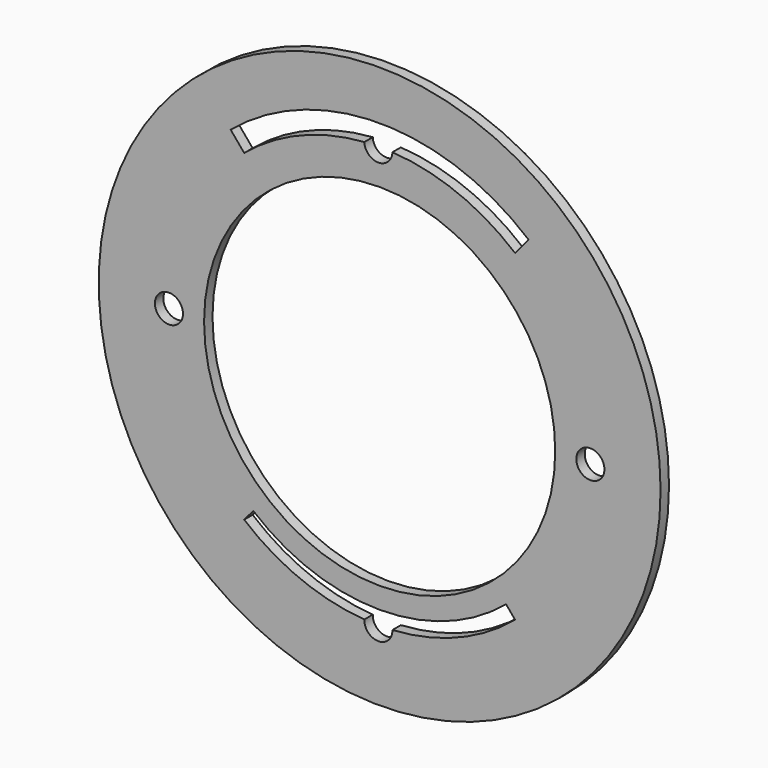
from build123d import *

# Parameters (mm, degrees)
F0_R     = 40
F0_R_2   = 2
F0_R_3   = 25
F1_DEPTH = 1.5


with BuildPart() as f1:
    # F0 (on Front) → F1 (new body)
    with BuildSketch(Plane.XZ):
        Circle(F0_R)
        with BuildLine():
            ThreePointArc((1.817168, -29.944914), (-0.194228, -31.999411), (-2.180536, -29.920649))
            ThreePointArc((-2.180536, -29.920649), (-11.279012, -27.798991), (-19.283628, -22.981333))
            Line((-19.283628, -22.981333), (-17.998053, -21.449244))
            ThreePointArc((-17.998053, -21.449244), (0, -28), (17.998053, -21.449244))
            Line((17.998053, -21.449244), (19.283628, -22.981333))
            ThreePointArc((19.283628, -22.981333), (11.110075, -27.866938), (1.817168, -29.944914))
        make_face(mode=Mode.SUBTRACT)
        with Locations((-30, 0)):
            Circle(F0_R_2, mode=Mode.SUBTRACT)
        Circle(F0_R_3, mode=Mode.SUBTRACT)
        with Locations((30, 0)):
            Circle(F0_R_2, mode=Mode.SUBTRACT)
        with BuildLine():
            ThreePointArc((1.817168, 29.944914), (-0.169949, 27.999484), (-2.180536, 29.920649))
            ThreePointArc((-2.180536, 29.920649), (-11.279012, 27.798991), (-19.283628, 22.981333))
            Line((-19.283628, 22.981333), (-21.211991, 25.279467))
            ThreePointArc((-21.211991, 25.279467), (0, 33), (21.211991, 25.279467))
            Line((21.211991, 25.279467), (19.283628, 22.981333))
            ThreePointArc((19.283628, 22.981333), (11.110075, 27.866938), (1.817168, 29.944914))
        make_face(mode=Mode.SUBTRACT)
    extrude(amount=F1_DEPTH)


solid = f1.part
